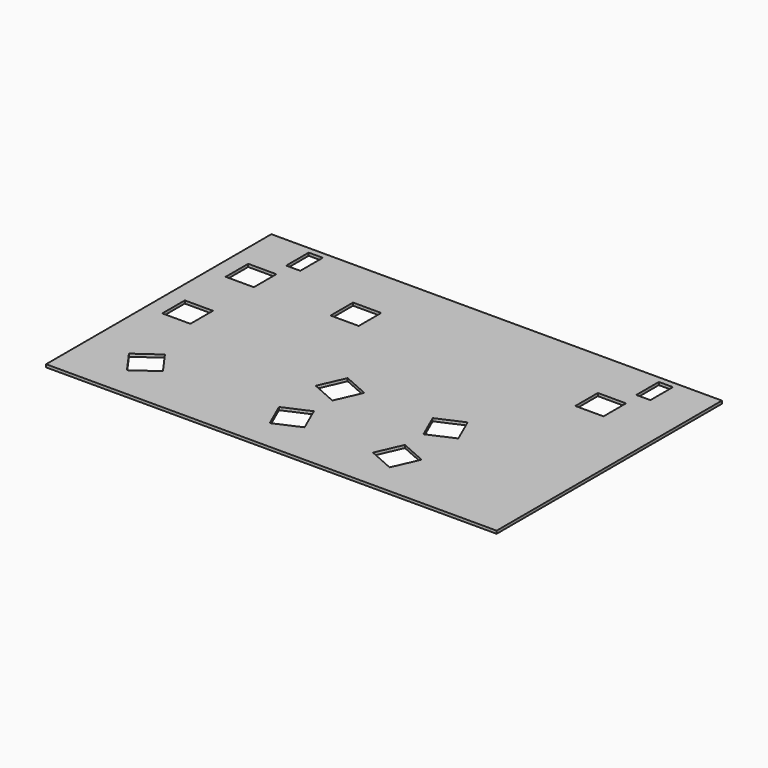
from build123d import *

# Parameters (mm, degrees)
F0_W     = 203.2
F0_H     = 127
F0_W_2   = 12.7
F0_H_2   = 12.7
F0_W_3   = 6.35
F1_DEPTH = 1.27


with BuildPart() as f1:
    # F0 (on Top) → F1 (new body)
    with BuildSketch(Plane.XY):
        with Locations((-45.201082, 27.389223)):
            Rectangle(F0_W, F0_H)
        Polygon((-121.702438, -21.913276), (-129.066739, -11.566438), (-118.719901, -4.202136), (-111.355599, -14.548975), align=None, mode=Mode.SUBTRACT)
        Polygon((-50.755317, -5.224569), (-45.62584, -16.842592), (-57.243863, -21.972069), (-62.373341, -10.354046), align=None, mode=Mode.SUBTRACT)
        with Locations((-132.709693, 26.056859)):
            Rectangle(F0_W_2, F0_H_2, mode=Mode.SUBTRACT)
        Polygon((-57.243863, 21.972069), (-45.62584, 16.842592), (-50.755317, 5.224569), (-62.373341, 10.354046), align=None, mode=Mode.SUBTRACT)
        Polygon((-3.180643, -21.972069), (-14.798667, -16.842592), (-9.669189, -5.224569), (1.948834, -10.354046), align=None, mode=Mode.SUBTRACT)
        Polygon((-9.669189, 5.224569), (-14.798667, 16.842592), (-3.180643, 21.972069), (1.948834, 10.354046), align=None, mode=Mode.SUBTRACT)
        with Locations((-132.709693, 61.797474)):
            Rectangle(F0_W_2, F0_H_2, mode=Mode.SUBTRACT)
        with Locations((-124.576082, 81.781995)):
            Rectangle(F0_W_3, F0_H_2, mode=Mode.SUBTRACT)
        with Locations((-85.407068, 61.797474)):
            Rectangle(F0_W_2, F0_H_2, mode=Mode.SUBTRACT)
        with Locations((24.982561, 61.797474)):
            Rectangle(F0_W_2, F0_H_2, mode=Mode.SUBTRACT)
        with Locations((33.324402, 81.781995)):
            Rectangle(F0_W_3, F0_H_2, mode=Mode.SUBTRACT)
    extrude(amount=F1_DEPTH)


solid = f1.part
